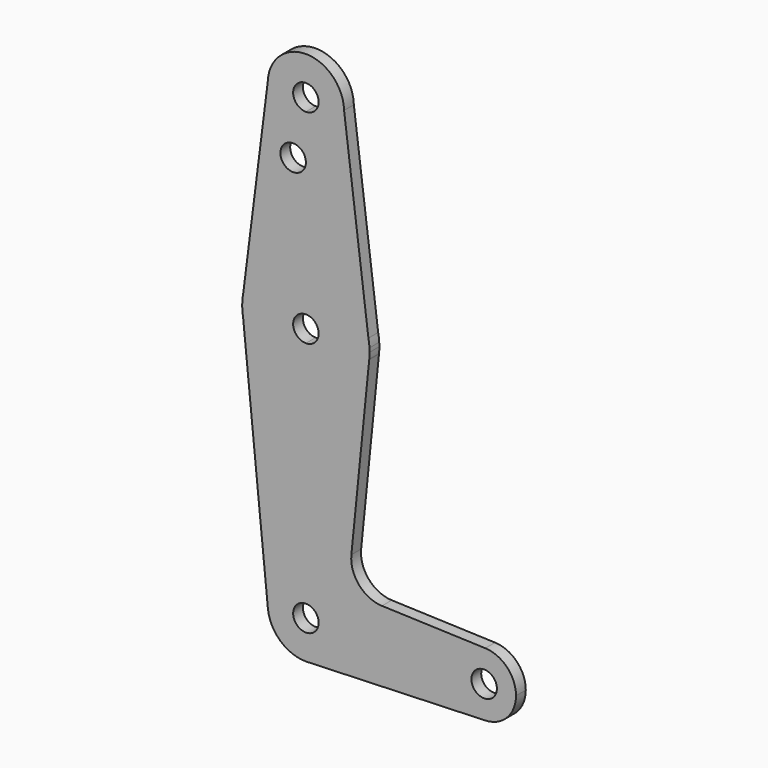
from build123d import *

# Parameters (mm, degrees)
F0_R     = 3.175
F1_DEPTH = 3.048


with BuildPart() as f1:
    # F0 (on Front) → F1 (new body)
    with BuildSketch(Plane.XZ):
        with BuildLine():
            Line((0.6773435479, -50.4789420142), (0, -50.5030562282))
            ThreePointArc((0, -50.5030562282), (0.3388863295, -50.4970257657), (0.6773435479, -50.4789420142))
        make_face()
        with BuildLine():
            ThreePointArc((15.8458633156, 23.4833181953), (15.7498979853, 24.5109984351), (15.5873537131, 25.5302704201))
            Line((15.5873537131, 25.5302704201), (15.8458633156, 23.4833181953))
        make_face()
        with BuildLine():
            Line((-15.8458633156, 23.4833181953), (-15.5873537131, 25.5302704201))
            ThreePointArc((-15.5873537131, 25.5302704201), (-15.7498979853, 24.5109984351), (-15.8458633156, 23.4833181953))
        make_face()
        with BuildLine():
            Line((-15.6479289649, 19.8465103283), (-15.8679647515, 22.0493766934))
            ThreePointArc((-15.8679647515, 22.0493766934), (-15.7963933935, 20.9441032354), (-15.6479289649, 19.8465103283))
        make_face()
        with BuildLine():
            ThreePointArc((15.5873537131, 25.5302704201), (10.1059002434, 34.764754122), (0, 38.3969437718))
            Line((0, 38.3969437718), (0, 25.6969437718))
            ThreePointArc((0, 25.6969437718), (2.2450640303, 24.767007802), (3.175, 22.5219437718))
            ThreePointArc((3.175, 22.5219437718), (2.2450640303, 20.2768797415), (0, 19.3469437718))
            Line((0, 19.3469437718), (0, 6.6469437718))
            ThreePointArc((0, 6.6469437718), (10.672756581, 10.7700123577), (15.801638216, 20.997524312))
            ThreePointArc((15.801638216, 20.997524312), (15.8566489474, 21.7588519292), (15.875, 22.5219437718))
            ThreePointArc((15.875, 22.5219437718), (15.867714157, 23.0028516966), (15.8458633156, 23.4833181953))
            Line((15.8458633156, 23.4833181953), (15.5873537131, 25.5302704201))
        make_face()
        with BuildLine():
            ThreePointArc((9.525, 73.3219437718), (6.7351920908, 66.586751681), (0, 63.7969437718))
            Line((0, 63.7969437718), (0, 59.0471437718))
            Line((0, 59.0471437718), (0, 38.3969437718))
            ThreePointArc((0, 38.3969437718), (10.1059002434, 34.764754122), (15.5873537131, 25.5302704201))
            Line((15.5873537131, 25.5302704201), (9.522109251, 73.5565933235))
            ThreePointArc((9.522109251, 73.5565933235), (9.5242772853, 73.4392774504), (9.525, 73.3219437718))
        make_face()
        with BuildLine():
            Line((36.5125, -40.9780562282), (9.525, -40.9780562282))
            ThreePointArc((9.525, -40.9780562282), (6.9705567315, -47.4693553165), (0.6773435479, -50.4789420142))
            Line((0.6773435479, -50.4789420142), (44.7324052746, -48.9105308428))
            ThreePointArc((44.7324052746, -48.9105308428), (38.9380895153, -46.6896890122), (36.5125, -40.9780562282))
        make_face()
        with BuildLine():
            ThreePointArc((-9.522109251, 73.5565933235), (-6.8176484942, 66.6702301572), (0, 63.7969437718))
            ThreePointArc((0, 63.7969437718), (6.7351920908, 66.586751681), (9.525, 73.3219437718))
            ThreePointArc((9.525, 73.3219437718), (9.5242772853, 73.4392774504), (9.522109251, 73.5565933235))
            ThreePointArc((9.522109251, 73.5565933235), (0, 82.8469437718), (-9.522109251, 73.5565933235))
        make_face()
        with BuildLine():
            ThreePointArc((3.175, 73.3219437718), (2.2450640303, 71.0768797415), (0, 70.1469437718))
            ThreePointArc((0, 70.1469437718), (-2.2450640303, 75.567007802), (3.175, 73.3219437718))
        make_face(mode=Mode.SUBTRACT)
        with BuildLine():
            Line((0, -31.4530562282), (0, 6.6469437718))
            ThreePointArc((0, 6.6469437718), (-10.2357979436, 10.3875272033), (-15.6479289649, 19.8465103283))
            Line((-15.6479289649, 19.8465103283), (-9.4778360361, -41.9247605501))
            ThreePointArc((-9.4778360361, -41.9247605501), (-7.061975066, -34.5863324257), (0, -31.4530562282))
        make_face()
        with BuildLine():
            ThreePointArc((44.7324052746, -33.0455816137), (38.9380895153, -35.2664234443), (36.5125, -40.9780562282))
            ThreePointArc((36.5125, -40.9780562282), (38.9380895153, -46.6896890122), (44.7324052746, -48.9105308428))
            ThreePointArc((44.7324052746, -48.9105308428), (50.1616327839, -46.489966713), (52.3875, -40.9780562282))
            ThreePointArc((52.3875, -40.9780562282), (50.1616327839, -35.4661457435), (44.7324052746, -33.0455816137))
        make_face()
        with BuildLine():
            ThreePointArc((47.625, -40.9780562282), (44.45, -44.1530562282), (41.275, -40.9780562282))
            ThreePointArc((41.275, -40.9780562282), (44.45, -37.8030562282), (47.625, -40.9780562282))
        make_face(mode=Mode.SUBTRACT)
        with BuildLine():
            Line((0, 59.0471437718), (0, 63.7969437718))
            ThreePointArc((0, 63.7969437718), (-6.8176484942, 66.6702301572), (-9.522109251, 73.5565933235))
            Line((-9.522109251, 73.5565933235), (-15.5873537131, 25.5302704201))
            ThreePointArc((-15.5873537131, 25.5302704201), (-10.1059002434, 34.764754122), (0, 38.3969437718))
            Line((0, 38.3969437718), (0, 59.0471437718))
        make_face()
        with Locations((-3.1787755433, 59.0471437718)):
            Circle(F0_R, mode=Mode.SUBTRACT)
        with BuildLine():
            Line((11.3407969363, -23.3881785716), (15.801638216, 20.997524312))
            ThreePointArc((15.801638216, 20.997524312), (10.672756581, 10.7700123577), (0, 6.6469437718))
            Line((0, 6.6469437718), (0, -31.4530562282))
            ThreePointArc((0, -31.4530562282), (6.7351920908, -34.2428641374), (9.525, -40.9780562282))
            Line((9.525, -40.9780562282), (36.5125, -40.9780562282))
            ThreePointArc((36.5125, -40.9780562282), (38.9380895153, -35.2664234443), (44.7324052746, -33.0455816137))
            Line((44.7324052746, -33.0455816137), (18.9682905265, -32.1283493182))
            ThreePointArc((18.9682905265, -32.1283493182), (13.2611718706, -29.4105979955), (11.3407969363, -23.3881785716))
        make_face()
        with BuildLine():
            Line((0, 25.6969437718), (0, 38.3969437718))
            ThreePointArc((0, 38.3969437718), (-10.1059002434, 34.764754122), (-15.5873537131, 25.5302704201))
            Line((-15.5873537131, 25.5302704201), (-15.8458633156, 23.4833181953))
            ThreePointArc((-15.8458633156, 23.4833181953), (-15.8731146826, 22.766597146), (-15.8679647515, 22.0493766934))
            Line((-15.8679647515, 22.0493766934), (-15.6479289649, 19.8465103283))
            ThreePointArc((-15.6479289649, 19.8465103283), (-10.2357979436, 10.3875272033), (0, 6.6469437718))
            Line((0, 6.6469437718), (0, 19.3469437718))
            ThreePointArc((0, 19.3469437718), (-3.175, 22.5219437718), (0, 25.6969437718))
        make_face()
        with BuildLine():
            ThreePointArc((15.5873537131, 25.5302704201), (10.1059002434, 34.764754122), (0, 38.3969437718))
            Line((0, 38.3969437718), (0, 25.6969437718))
            ThreePointArc((0, 25.6969437718), (2.2450640303, 24.767007802), (3.175, 22.5219437718))
            ThreePointArc((3.175, 22.5219437718), (2.2450640303, 20.2768797415), (0, 19.3469437718))
            Line((0, 19.3469437718), (0, 6.6469437718))
            ThreePointArc((0, 6.6469437718), (10.672756581, 10.7700123577), (15.801638216, 20.997524312))
            ThreePointArc((15.801638216, 20.997524312), (15.8566489474, 21.7588519292), (15.875, 22.5219437718))
            ThreePointArc((15.875, 22.5219437718), (15.867714157, 23.0028516966), (15.8458633156, 23.4833181953))
            Line((15.8458633156, 23.4833181953), (15.5873537131, 25.5302704201))
        make_face()
        with BuildLine():
            Line((0, -37.8030562282), (0, -31.4530562282))
            ThreePointArc((0, -31.4530562282), (-7.061975066, -34.5863324257), (-9.4778360361, -41.9247605501))
            ThreePointArc((-9.4778360361, -41.9247605501), (-6.3917238025, -48.0400312942), (0, -50.5030562282))
            Line((0, -50.5030562282), (0.6773435479, -50.4789420142))
            ThreePointArc((0.6773435479, -50.4789420142), (6.9705567315, -47.4693553165), (9.525, -40.9780562282))
            Line((9.525, -40.9780562282), (3.175, -40.9780562282))
            ThreePointArc((3.175, -40.9780562282), (-2.2450640303, -43.2231202585), (0, -37.8030562282))
        make_face()
        with BuildLine():
            ThreePointArc((9.525, -40.9780562282), (6.7351920908, -34.2428641374), (0, -31.4530562282))
            Line((0, -31.4530562282), (0, -37.8030562282))
            ThreePointArc((0, -37.8030562282), (2.2450640303, -38.732992198), (3.175, -40.9780562282))
            Line((3.175, -40.9780562282), (9.525, -40.9780562282))
        make_face()
    extrude(amount=F1_DEPTH)


solid = f1.part
